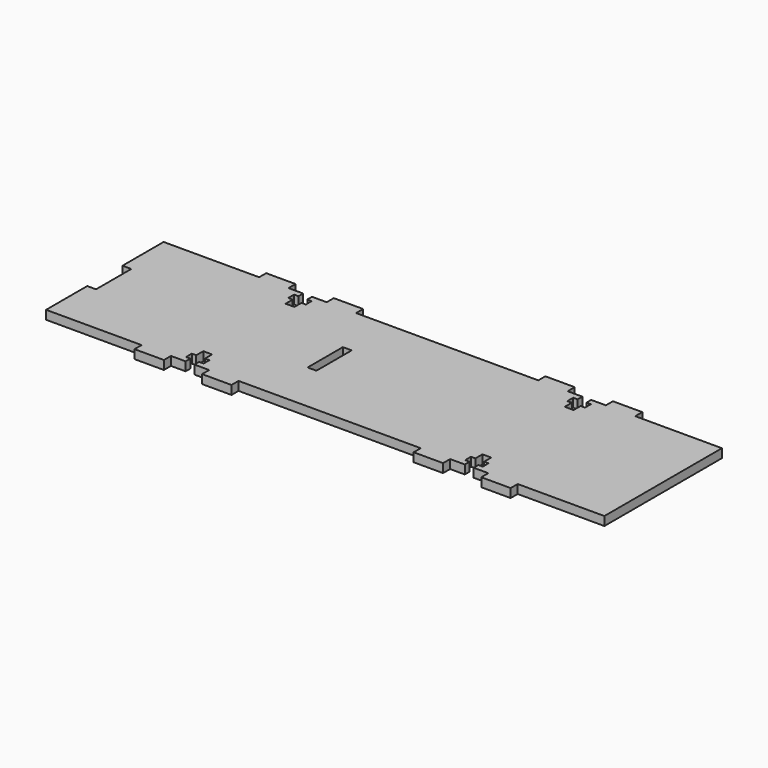
from build123d import *

# Parameters (mm, degrees)
F0_W     = 3
F0_H     = 15
F1_DEPTH = 3


with BuildPart() as f1:
    # F0 (on Top) → F1 (new body)
    with BuildSketch(Plane.XY):
        Polygon((31.770815, -49.872141), (31.770815, 0.127859), (2.270815, 0.127859), (2.270815, 3.127859), (-7.729185, 3.127859), (-7.729185, 0.127859), (-12.729185, 0.127859), (-12.729185, -1.872141), (-11.229185, -1.872141), (-11.229185, -4.372141), (-12.729185, -4.372141), (-12.729185, -7.372141), (-15.729185, -7.372141), (-15.729185, -4.372141), (-17.229185, -4.372141), (-17.229185, -1.872141), (-15.729185, -1.872141), (-15.729185, 0.127859), (-20.729185, 0.127859), (-20.729185, 3.127859), (-30.729185, 3.127859), (-30.729185, 0.127859), (-92.729185, 0.127859), (-92.729185, 3.127859), (-102.729185, 3.127859), (-102.729185, 0.127859), (-107.729185, 0.127859), (-107.729185, -1.872141), (-106.229185, -1.872141), (-106.229185, -4.372141), (-107.729185, -4.372141), (-107.729185, -7.372141), (-110.729185, -7.372141), (-110.729185, -4.372141), (-112.229185, -4.372141), (-112.229185, -1.872141), (-110.729185, -1.872141), (-110.729185, 0.127859), (-115.729185, 0.127859), (-115.729185, 3.127859), (-125.729185, 3.127859), (-125.729185, 0.127859), (-158.229185, 0.127859), (-158.229185, -17.372141), (-155.229185, -17.372141), (-155.229185, -32.372141), (-158.229185, -32.372141), (-158.229185, -49.872141), (-125.729185, -49.872141), (-125.729185, -52.872141), (-115.729185, -52.872141), (-115.729185, -49.872141), (-110.729185, -49.872141), (-110.729185, -47.872141), (-112.229185, -47.872141), (-112.229185, -45.372141), (-110.729185, -45.372141), (-110.729185, -42.372141), (-107.729185, -42.372141), (-107.729185, -45.372141), (-106.229185, -45.372141), (-106.229185, -47.872141), (-107.729185, -47.872141), (-107.729185, -49.872141), (-102.729185, -49.872141), (-102.729185, -52.872141), (-92.729185, -52.872141), (-92.729185, -49.872141), (-30.729185, -49.872141), (-30.729185, -52.872141), (-20.729185, -52.872141), (-20.729185, -49.872141), (-15.729185, -49.872141), (-15.729185, -47.872141), (-17.229185, -47.872141), (-17.229185, -45.372141), (-15.729185, -45.372141), (-15.729185, -42.372141), (-12.729185, -42.372141), (-12.729185, -45.372141), (-11.229185, -45.372141), (-11.229185, -47.872141), (-12.729185, -47.872141), (-12.729185, -49.872141), (-7.729185, -49.872141), (-7.729185, -52.872141), (2.270815, -52.872141), (2.270815, -49.872141), align=None)
        with Locations((-81.729185, -24.872141)):
            Rectangle(F0_W, F0_H, mode=Mode.SUBTRACT)
    extrude(amount=F1_DEPTH)


solid = f1.part
